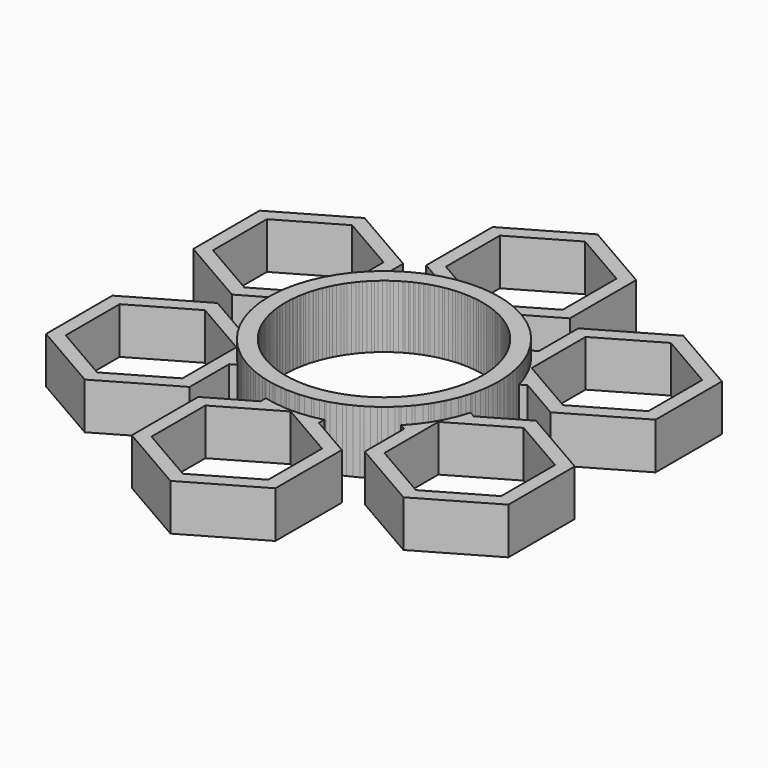
from build123d import *

# Parameters (mm, degrees)
F1_DEPTH = 7
F3_DEPTH = 1.83
F4_COUNT = 6


with BuildPart() as f1:
    # F0 (on Top) → F1 (new body)
    with BuildSketch(Plane.XY):
        with BuildLine():
            Line((8, 25.118802), (0, 29.737604))
            Line((0, 29.737604), (0, 28.005553))
            Line((0, 28.005553), (6.5, 24.252777))
            Line((6.5, 24.252777), (6.5, 20.5))
            Line((6.5, 20.5), (6.5, 16.747223))
            Line((6.5, 16.747223), (0, 12.994447))
            Line((0, 12.994447), (-3.25, 14.870835))
            Line((-3.25, 14.870835), (-3.25, 13.138784))
            Line((-3.25, 13.138784), (-3.25, 12.380529))
            ThreePointArc((-3.25, 12.380529), (-12.8, 0), (-3.25, -12.380529))
            Line((-3.25, -12.380529), (-3.25, -13.138784))
            Line((-3.25, -13.138784), (-8, -15.881198))
            Line((-8, -15.881198), (-8, -25.118802))
            Line((-8, -25.118802), (0, -29.737604))
            Line((0, -29.737604), (8, -25.118802))
            Line((8, -25.118802), (8, -15.881198))
            Line((8, -15.881198), (3.25, -13.138784))
            Line((3.25, -13.138784), (3.25, -12.380529))
            ThreePointArc((3.25, -12.380529), (12.8, 0), (3.25, 12.380529))
            Line((3.25, 12.380529), (3.25, 13.138784))
            Line((3.25, 13.138784), (8, 15.881198))
            Line((8, 15.881198), (8, 25.118802))
        make_face()
        Polygon((6.5, -16.747223), (6.5, -24.252777), (0, -28.005553), (-6.5, -24.252777), (-6.5, -16.747223), (0, -12.994447), align=None, mode=Mode.SUBTRACT)
        with BuildLine():
            ThreePointArc((11, 0), (-6.528782, -8.852966), (-3.25, 10.508925))
            ThreePointArc((-3.25, 10.508925), (6.528782, 8.852966), (11, 0))
        make_face(mode=Mode.SUBTRACT)
        Polygon((0, 28.005553), (0, 29.737604), (-8, 25.118802), (-8, 15.881198), (-3.25, 13.138784), (-3.25, 14.870835), (-6.5, 16.747223), (-6.5, 20.5), (-6.5, 24.252777), align=None)
    extrude(amount=F1_DEPTH)

    # F2 (on face) → F3 (cut)
    with BuildSketch(Plane.XY.offset(7)):
        with BuildLine():
            Line((-3.25, 13.138784), (-3.25, 12.380529))
            ThreePointArc((-3.25, 12.380529), (0, 12.8), (3.25, 12.380529))
            Line((3.25, 12.380529), (3.25, 13.138784))
            Line((3.25, 13.138784), (8, 15.881198))
            Line((8, 15.881198), (8, 25.118802))
            Line((8, 25.118802), (0, 29.737604))
            Line((0, 29.737604), (-8, 25.118802))
            Line((-8, 25.118802), (-8, 15.881198))
            Line((-8, 15.881198), (-3.25, 13.138784))
        make_face()
        Polygon((6.5, 16.747223), (0, 12.994447), (-6.5, 16.747223), (-6.5, 24.252777), (0, 28.005553), (6.5, 24.252777), align=None, mode=Mode.SUBTRACT)
        with BuildLine():
            ThreePointArc((3.25, -12.380529), (0, -12.8), (-3.25, -12.380529))
            Line((-3.25, -12.380529), (-3.25, -13.138784))
            Line((-3.25, -13.138784), (-8, -15.881198))
            Line((-8, -15.881198), (-8, -25.118802))
            Line((-8, -25.118802), (0, -29.737604))
            Line((0, -29.737604), (8, -25.118802))
            Line((8, -25.118802), (8, -15.881198))
            Line((8, -15.881198), (3.25, -13.138784))
            Line((3.25, -13.138784), (3.25, -12.380529))
        make_face()
        Polygon((-6.5, -16.747223), (0, -12.994447), (6.5, -16.747223), (6.5, -24.252777), (0, -28.005553), (-6.5, -24.252777), align=None, mode=Mode.SUBTRACT)
    extrude(amount=-F3_DEPTH, mode=Mode.SUBTRACT)


with BuildPart() as f4_1:
    # F4: instance of F1
    add(f1.part.rotate(Axis((0, 0, 0), (0, 0, -1)), 1 * 360 / F4_COUNT))


with BuildPart() as f4_2:
    # F4: instance of F1
    add(f1.part.rotate(Axis((0, 0, 0), (0, 0, -1)), 2 * 360 / F4_COUNT))


with BuildPart() as f4_3:
    # F4: instance of F1
    add(f1.part.rotate(Axis((0, 0, 0), (0, 0, -1)), 3 * 360 / F4_COUNT))


with BuildPart() as f4_4:
    # F4: instance of F1
    add(f1.part.rotate(Axis((0, 0, 0), (0, 0, -1)), 4 * 360 / F4_COUNT))


with BuildPart() as f4_5:
    # F4: instance of F1
    add(f1.part.rotate(Axis((0, 0, 0), (0, 0, -1)), 5 * 360 / F4_COUNT))


solid = Compound([f1.part, f4_1.part, f4_2.part, f4_3.part, f4_4.part, f4_5.part])
